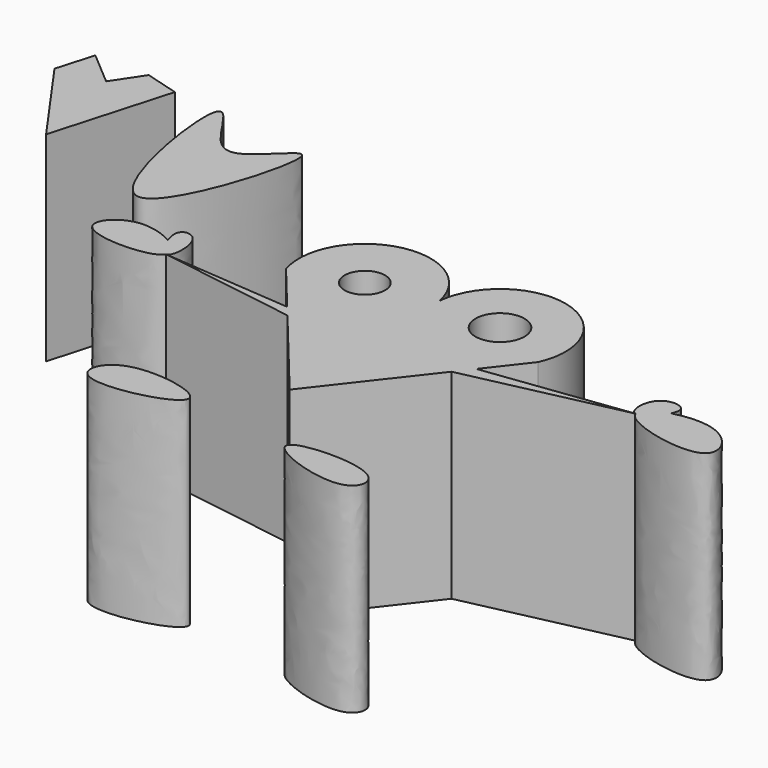
from build123d import *

# Parameters (mm, degrees)
F1_DEPTH = 30
F0_R     = 3.0398499551
F0_R_2   = 3.6736736011


with BuildPart() as f1:
    # F0 (on Top) → F1 (new body)
    with BuildSketch(Plane.XY):
        with BuildLine():
            add(Edge.make_bspline(
                [(-21.4516129345, 39.9865619838), (-22.6368103627, 41.7835951655), (-26.7233103993, 47.7348083415), (-19.2222385436, 0.7514125542), (-5.0163121492, 49.0153403046), (-16.4100504731, 32.0719498084), (-19.818823089, 37.510875266), (-21.4516129345, 39.9865619838)],
                knots=[0, 0, 0, 0, 0.1144567152, 0.4013641078, 0.6782338776, 0.8423184544, 1, 1, 1, 1], degree=3))
        make_face()
    extrude(amount=F1_DEPTH)


with BuildPart() as f1b:
    # F0 (on Top) → F1, piece 2 (new body)
    with BuildSketch(Plane.XY):
        Polygon((-36.2623594701, 44.715732336), (-39.1691550612, 40.355540812), (-44.2710109055, 44.715732336), (-45.908447355, 39.0916951001), (-36.2623594701, 25.4581710323), (-31.1754643917, 43.2623364031), align=None)
    extrude(amount=F1_DEPTH)


with BuildPart() as f1c:
    # F0 (on Top) → F1, piece 3 (new body)
    with BuildSketch(Plane.XY):
        with BuildLine():
            ThreePointArc((26.1387210339, 21.2618391961), (13.9796221587, 28.9455402543), (7.0353033952, 16.3495335728))
            Line((7.0353033952, 16.3495335728), (13.1517501199, 8.9183368514))
            Line((13.1517501199, 8.9183368514), (14.5272130946, 7.2472136637))
            Line((14.5272130946, 7.2472136637), (23.7516688594, -3.9600686885))
            Line((23.7516688594, -3.9600686885), (26.5025943518, -7.3023145087))
            Line((26.5025943518, -7.3023145087), (29.0992615005, -3.9600686885))
            Line((29.0992615005, -3.9600686885), (38.4659981645, 8.0961305359))
            Line((38.4659981645, 8.0961305359), (40.3062071795, 10.4647170879))
            Line((40.3062071795, 10.4647170879), (44.8782555759, 16.3495335728))
            ThreePointArc((44.8782555759, 16.3495335728), (38.4116754557, 29.8808067183), (26.1387210339, 21.2618391961))
        make_face()
        with Locations((16.4401611005, 19.3767742562)):
            Circle(F0_R, mode=Mode.SUBTRACT)
        with Locations((35.9211053485, 20.3797438504)):
            Circle(F0_R_2, mode=Mode.SUBTRACT)
        Polygon((14.5272130946, 7.2472136637), (13.1517501199, 8.9183368514), (-6.246119272, 10.4647170879), align=None)
        Polygon((61.9803667068, 13.2565991953), (40.3062071795, 10.4647170879), (38.4659981645, 8.0961305359), align=None)
    extrude(amount=F1_DEPTH)


with BuildPart() as f1d:
    # F0 (on Top) → F1, piece 4 (new body)
    with BuildSketch(Plane.XY):
        with BuildLine():
            add(Edge.make_bspline(
                [(61.9803667068, 13.2565991953), (60.8768035478, 13.4971476385), (60.7230887996, 18.7147123105), (65.8826535659, 18.3354801771), (65.4028891814, 16.4065994874), (65.1588418989, 15.9095944234)],
                knots=[0, 0, 0, 0, 0.3296261707, 0.6294284902, 0.7286098778, 0.7286098778, 0.7286098778, 0.7286098778], degree=3))
            add(Edge.make_bspline(
                [(61.9803667068, 13.2565991953), (61.6853850674, 14.2840997027), (63.1424708424, 15.3191988771), (65.1588418989, 15.9095944234)],
                knots=[0, 0, 0, 0, 0.1735076842, 0.1735076842, 0.1735076842, 0.1735076842], degree=3))
        make_face()
        with BuildLine():
            add(Edge.make_bspline(
                [(61.9803667068, 13.2565991953), (61.6853850674, 14.2840997027), (63.1424708424, 15.3191988771), (65.1588418989, 15.9095944234)],
                knots=[0, 0, 0, 0, 0.1735076842, 0.1735076842, 0.1735076842, 0.1735076842], degree=3))
            add(Edge.make_bspline(
                [(65.1588418989, 15.9095944234), (64.4910550953, 14.5496390097), (62.8889600383, 13.0585491702), (61.9803667068, 13.2565991953)],
                knots=[0.7286098778, 0.7286098778, 0.7286098778, 0.7286098778, 1, 1, 1, 1], degree=3))
        make_face()
        with BuildLine():
            add(Edge.make_bspline(
                [(65.1588418989, 15.9095944234), (64.4910550953, 14.5496390097), (62.8889600383, 13.0585491702), (61.9803667068, 13.2565991953)],
                knots=[0.7286098778, 0.7286098778, 0.7286098778, 0.7286098778, 1, 1, 1, 1], degree=3))
            add(Edge.make_bspline(
                [(65.1588418989, 15.9095944234), (67.0891950186, 16.4748038283), (73.5363198185, 16.8908251498), (78.6799873504, 7.1120844287), (62.6402200033, 10.9581524233), (61.9803667068, 13.2565991953)],
                knots=[0.1735076842, 0.1735076842, 0.1735076842, 0.1735076842, 0.3396135694, 0.6118754456, 1, 1, 1, 1], degree=3))
        make_face()
    extrude(amount=F1_DEPTH)


with BuildPart() as f1e:
    # F0 (on Top) → F1, piece 5 (new body)
    with BuildSketch(Plane.XY):
        with BuildLine():
            add(Edge.make_bspline(
                [(35.0536480546, -18.5824260116), (34.7473422426, -20.283654372), (47.741143235, -25.0048283281), (49.4616491166, -16.3099819561), (35.3620358224, -16.8696344284), (35.0536480546, -18.5824260116)],
                knots=[0, 0, 0, 0, 0.3902760136, 0.6070712864, 1, 1, 1, 1], degree=3))
        make_face()
    extrude(amount=F1_DEPTH)


with BuildPart() as f1f:
    # F0 (on Top) → F1, piece 6 (new body)
    with BuildSketch(Plane.XY):
        with BuildLine():
            add(Edge.make_bspline(
                [(18.6792891473, -16.5811162442), (18.358751888, -18.6046949014), (2.993645534, -22.3810773313), (6.1137840436, -12.0397046536), (18.9795089278, -14.6858035377), (18.6792891473, -16.5811162442)],
                knots=[0, 0, 0, 0, 0.3933696391, 0.6315643711, 1, 1, 1, 1], degree=3))
        make_face()
    extrude(amount=F1_DEPTH)


with BuildPart() as f1g:
    # F0 (on Top) → F1, piece 7 (new body)
    with BuildSketch(Plane.XY):
        with BuildLine():
            add(Edge.make_bspline(
                [(-8.3615966427, 13.4129272213), (-9.8382887567, 14.2710788213), (-15.1638903751, 15.9146231567), (-21.5908860256, 8.375890513), (-7.2782388564, 8.5906424187), (-6.246119272, 10.4647170879)],
                knots=[0.1734535438, 0.1734535438, 0.1734535438, 0.1734535438, 0.3365814382, 0.6137236773, 1, 1, 1, 1], degree=3))
            add(Edge.make_bspline(
                [(-8.3615966427, 13.4129272213), (-7.8522636605, 11.9389577821), (-6.8704517284, 10.4261122931), (-6.246119272, 10.4647170879)],
                knots=[0.7546088368, 0.7546088368, 0.7546088368, 0.7546088368, 1, 1, 1, 1], degree=3))
        make_face()
        with BuildLine():
            add(Edge.make_bspline(
                [(-8.3615966427, 13.4129272213), (-7.8522636605, 11.9389577821), (-6.8704517284, 10.4261122931), (-6.246119272, 10.4647170879)],
                knots=[0.7546088368, 0.7546088368, 0.7546088368, 0.7546088368, 1, 1, 1, 1], degree=3))
            add(Edge.make_bspline(
                [(-6.246119272, 10.4647170879), (-5.7826562301, 11.3062516931), (-6.7914330529, 12.5004564468), (-8.3615966427, 13.4129272213)],
                knots=[0, 0, 0, 0, 0.1734535438, 0.1734535438, 0.1734535438, 0.1734535438], degree=3))
        make_face()
        with BuildLine():
            add(Edge.make_bspline(
                [(-6.246119272, 10.4647170879), (-5.7826562301, 11.3062516931), (-6.7914330529, 12.5004564468), (-8.3615966427, 13.4129272213)],
                knots=[0, 0, 0, 0, 0.1734535438, 0.1734535438, 0.1734535438, 0.1734535438], degree=3))
            add(Edge.make_bspline(
                [(-6.246119272, 10.4647170879), (-5.323760933, 10.5217499301), (-5.0834792007, 16.3424793403), (-9.0335363798, 16.5835525567), (-8.655811411, 14.2643615329), (-8.3615966427, 13.4129272213)],
                knots=[0, 0, 0, 0, 0.3625289433, 0.6128593197, 0.7546088368, 0.7546088368, 0.7546088368, 0.7546088368], degree=3))
        make_face()
    extrude(amount=F1_DEPTH)


solid = Compound([f1.part, f1b.part, f1c.part, f1d.part, f1e.part, f1f.part, f1g.part])
